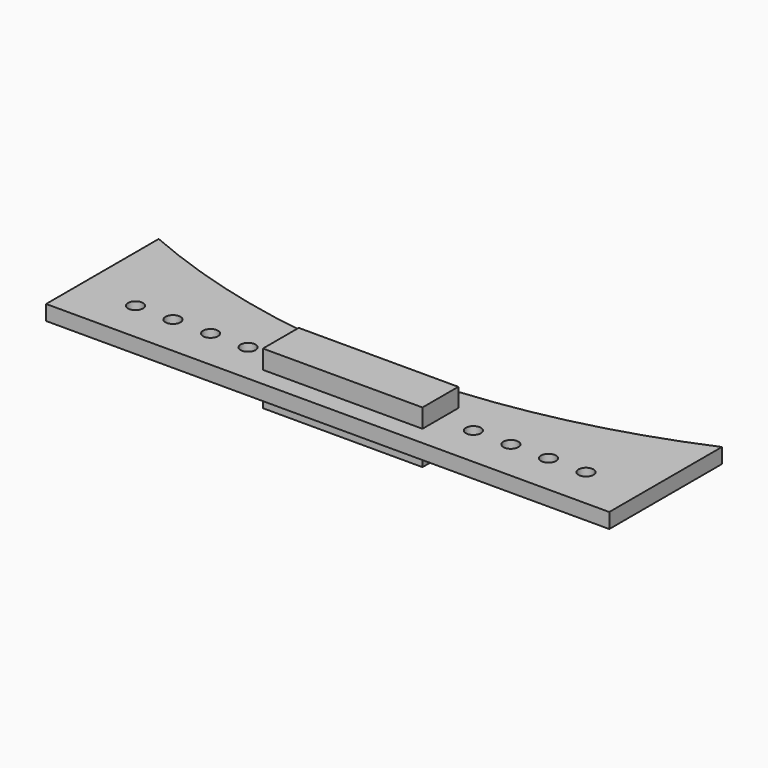
from build123d import *

# Parameters (mm, degrees)
F4_W          = 300
F4_H          = 8
F0_DEPTH      = 75
F5_DEPTH      = 25
F6_D          = 8
F7_W          = 85
F7_H          = 23.832924
F3_DEPTH      = 10
F3_DEPTH_BACK = 18


with BuildPart() as f0:
    # F4 (on Front) → F0 (new body)
    with BuildSketch(Plane.XZ):
        with Locations((-150, -4)):
            Rectangle(F4_W, F4_H)
    extrude(amount=F0_DEPTH)

    # F1 (on face) → F5 (cut)
    with BuildSketch(Plane.XY):
        with BuildLine():
            Line((0, 0), (-300, 0))
            ThreePointArc((-300, 0), (-150, -31.167076), (0, 0))
        make_face()
    extrude(amount=-F5_DEPTH, mode=Mode.SUBTRACT)

    # F6 (through all)
    with Locations(Plane.XY):
        with Locations((-270, -53), (-250, -53), (-230.000013, -53), (-210.000013, -53), (-90, -53), (-70, -53), (-50, -53), (-30, -53)):
            Hole(F6_D / 2)

    # F7 (on face) → F3 (join, two sides)
    with BuildSketch(Plane.XY) as f3_sk:
        with Locations((-150, -53.083538)):
            Rectangle(F7_W, F7_H)
    extrude(amount=F3_DEPTH)
    extrude(f3_sk.sketch, amount=-F3_DEPTH_BACK)


solid = f0.part
